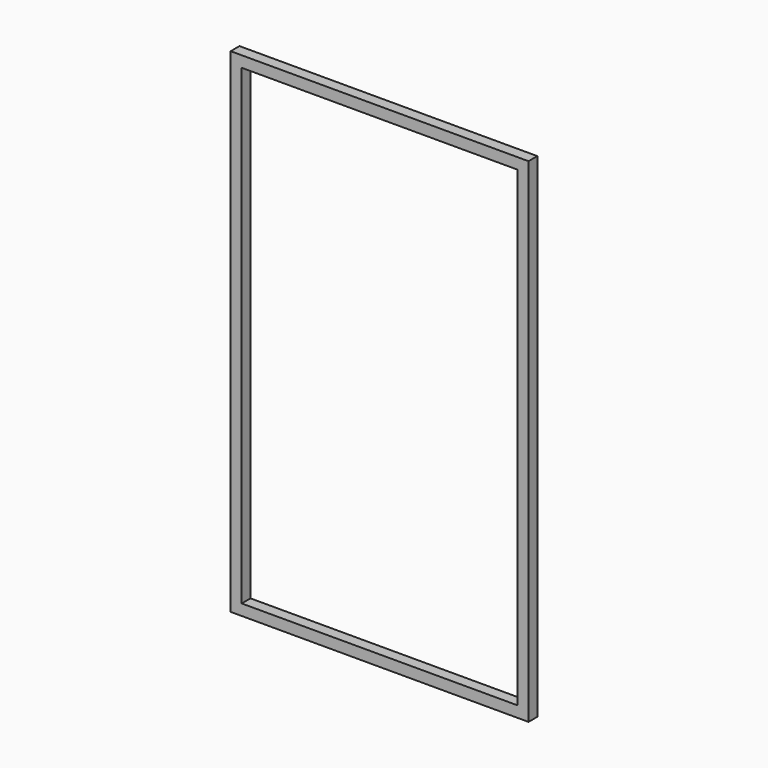
from build123d import *

# Parameters (mm, degrees)
F0_W     = 40
F0_H     = 1710
F1_DEPTH = 40


with BuildPart() as f1:
    # F0 (on Front) → F1 (new body)
    with BuildSketch(Plane.XZ):
        Polygon((999.77943, 0), (-80.22057, 0), (-80.22057, -40), (-40.22057, -40), (959.77943, -40), (999.77943, -40), align=None)
        with Locations((-60.22057, -895)):
            Rectangle(F0_W, F0_H)
        with Locations((979.77943, -895)):
            Rectangle(F0_W, F0_H)
        Polygon((-40.22057, -1750), (-80.22057, -1750), (-80.22057, -1790), (999.77943, -1790), (999.77943, -1750), (959.77943, -1750), align=None)
    extrude(amount=F1_DEPTH)


solid = f1.part
